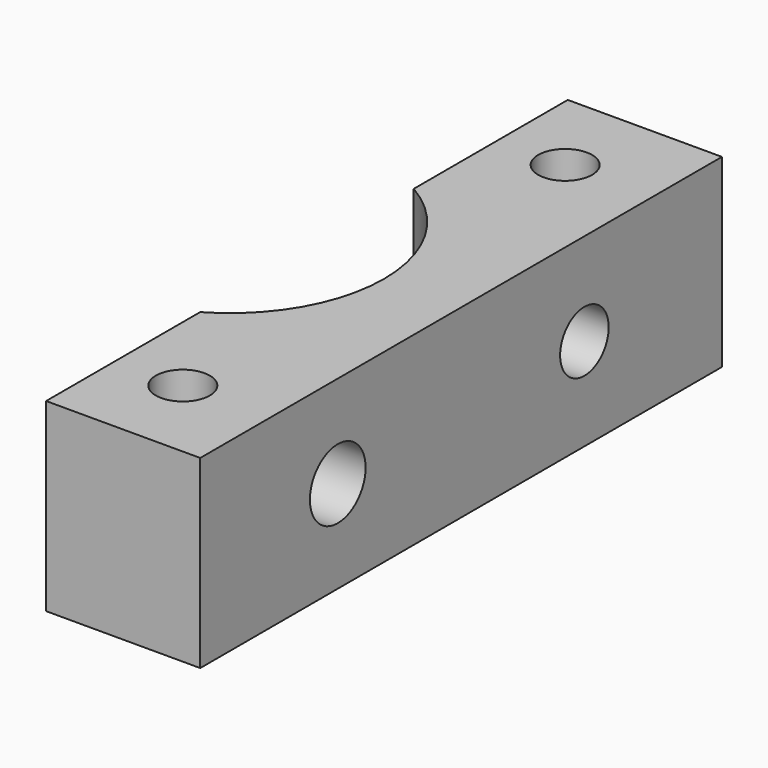
from build123d import *

# Parameters (mm, degrees)
F0_R     = 1.75
F1_DEPTH = 12
F2_R     = 1.96967
F2_R_2   = 2.258854
F3_DEPTH = 25


with BuildPart() as f1:
    # F0 (on Top) → F1 (new body)
    with BuildSketch(Plane.XY):
        with BuildLine():
            ThreePointArc((-10, 29.810254), (-6.339746, 26.15), (-5, 21.15))
            ThreePointArc((-5, 21.15), (-6.339746, 16.15), (-10, 12.489746))
            Line((-10, 12.489746), (-10, 0))
            Line((-10, 0), (0, 0))
            Line((0, 0), (0, 42.3))
            Line((0, 42.3), (-10, 42.3))
            Line((-10, 42.3), (-10, 29.810254))
        make_face()
        with Locations((-5.65, 5.65)):
            Circle(F0_R, mode=Mode.SUBTRACT)
        with Locations((-5.65, 36.65)):
            Circle(F0_R, mode=Mode.SUBTRACT)
    extrude(amount=F1_DEPTH)

    # F2 (on face) → F3 (cut)
    with BuildSketch(Plane.YZ):
        with Locations((31.15, 6)):
            Circle(F2_R)
        with Locations((11.15, 6)):
            Circle(F2_R_2)
    extrude(amount=-F3_DEPTH, mode=Mode.SUBTRACT)


solid = f1.part
